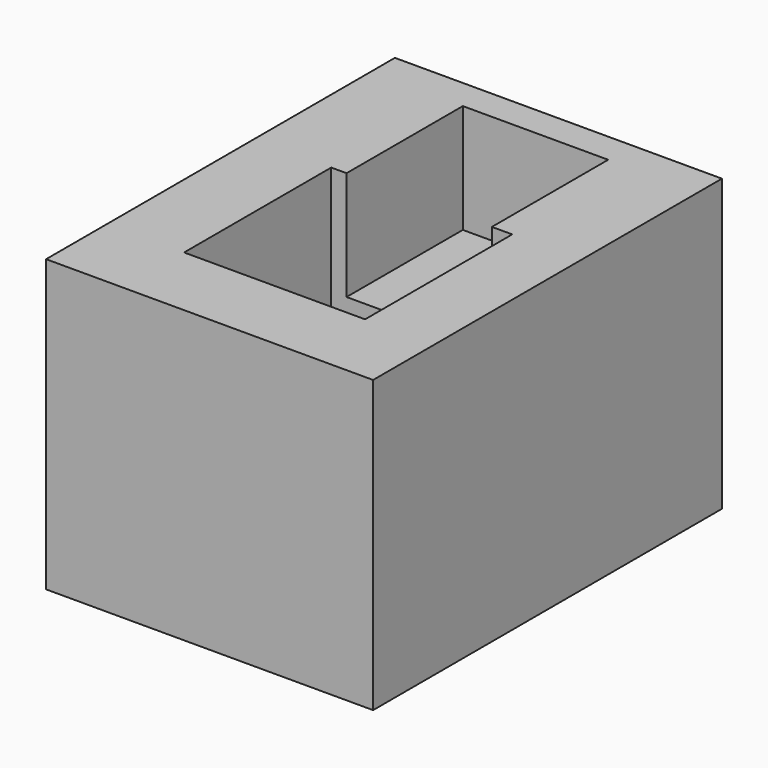
from build123d import *

# Parameters (mm, degrees)
F0_W     = 114.3
F0_H     = 152.4
F1_DEPTH = 101.6
F2_W     = 50.8
F2_H     = 50.8
F3_DEPTH = 38.1
F5_DEPTH = 63.5


with BuildPart() as f1:
    # F0 (on Top) → F1 (new body)
    with BuildSketch(Plane.XY):
        with Locations((-6.724683, 26.519689)):
            Rectangle(F0_W, F0_H)
    extrude(amount=F1_DEPTH)

    # F2 (on face) → F3 (cut)
    with BuildSketch(Plane.XY.offset(101.6)):
        with Locations((-6.183666, 66.633569)):
            Rectangle(F2_W, F2_H)
    extrude(amount=-F3_DEPTH, mode=Mode.SUBTRACT)

    # F4 (on face) → F5 (cut)
    with BuildSketch(Plane.XY.offset(101.6)):
        Polygon((19.216334, 41.233569), (-31.583666, 41.233569), (-36.934618, 41.233569), (-36.934618, -23.049315), (26.324298, -23.049315), (26.324298, 41.233569), align=None)
    extrude(amount=-F5_DEPTH, mode=Mode.SUBTRACT)


solid = f1.part
